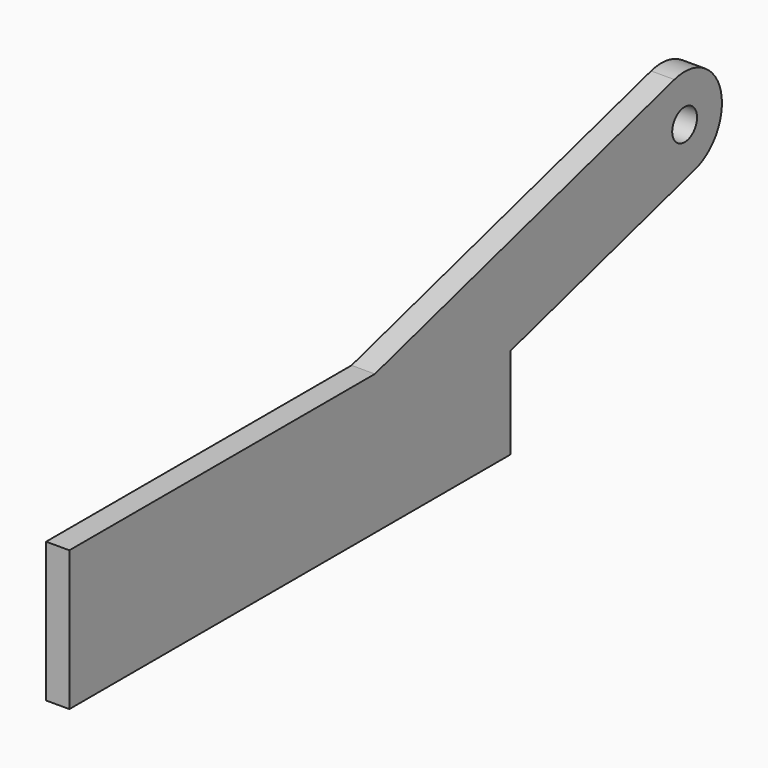
from build123d import *

# Parameters (mm, degrees)
F1_DEPTH = 9.525
F2_DEPTH = 9.525
F3_D     = 12.7


with BuildPart() as f1:
    # F0 (on Right) → F1 (new body)
    with BuildSketch(Plane.YZ):
        Polygon((0, 57.15), (0, 0), (225.425, 0), (225.425, 37.3376765309), (225.425, 57.15), (156.083, 57.15), align=None)
    extrude(amount=F1_DEPTH)

    # F0 (on Right) → F2 (join)
    with BuildSketch(Plane.YZ):
        Polygon((0, 57.15), (0, 0), (225.425, 0), (225.425, 37.3376765309), (225.425, 57.15), (156.083, 57.15), align=None)
        with BuildLine():
            Line((225.425, 57.15), (225.425, 37.3376765309))
            Line((225.425, 37.3376765309), (319.5570650431, 64.2329913682))
            ThreePointArc((319.5570650431, 64.2329913682), (305.0721225399, 65.8972639905), (296.0065399278, 77.3164835165))
            Line((296.0065399278, 77.3164835165), (225.425, 57.15))
        make_face()
        with BuildLine():
            Line((309.0900320761, 100.8670086318), (156.083, 57.15))
            Line((156.083, 57.15), (225.425, 57.15))
            Line((225.425, 57.15), (296.0065399278, 77.3164835165))
            ThreePointArc((296.0065399278, 77.3164835165), (297.67081255, 91.8014260196), (309.0900320761, 100.8670086318))
        make_face()
        with BuildLine():
            Line((314.3235485596, 82.55), (319.5570650431, 64.2329913682))
            ThreePointArc((319.5570650431, 64.2329913682), (329.5321150438, 71.0782082701), (333.3735485596, 82.55))
            ThreePointArc((333.3735485596, 82.55), (325.7953402895, 97.7585664842), (309.0900320761, 100.8670086318))
            Line((309.0900320761, 100.8670086318), (314.3235485596, 82.55))
        make_face()
        with BuildLine():
            ThreePointArc((296.0065399278, 77.3164835165), (305.0721225399, 65.8972639905), (319.5570650431, 64.2329913682))
            Line((319.5570650431, 64.2329913682), (314.3235485596, 82.55))
            Line((314.3235485596, 82.55), (296.0065399278, 77.3164835165))
        make_face()
        with BuildLine():
            Line((314.3235485596, 82.55), (309.0900320761, 100.8670086318))
            ThreePointArc((309.0900320761, 100.8670086318), (297.67081255, 91.8014260196), (296.0065399278, 77.3164835165))
            Line((296.0065399278, 77.3164835165), (314.3235485596, 82.55))
        make_face()
    extrude(amount=F2_DEPTH)

    # F3 (through all)
    with Locations(Plane(origin=(0, 0, 0), x_dir=(0, 1, 0), z_dir=(-1, 0, 0))):
        with Locations((314.3235485596, -82.55)):
            Hole(F3_D / 2)


solid = f1.part
